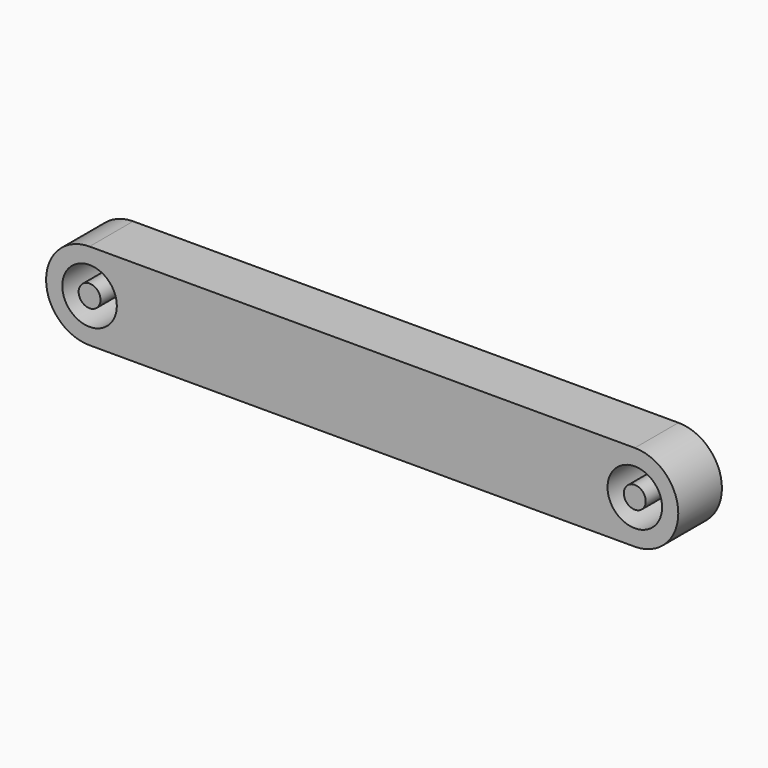
from build123d import *

# Parameters (mm, degrees)
F0_R     = 2.5019
F0_R_2   = 1.0033
F1_DEPTH = 5.0038


with BuildPart() as f1:
    # F0 (on Front) → F1 (new body)
    with BuildSketch(Plane.XZ):
        with BuildLine():
            ThreePointArc((0, 3.9878), (-3.9878, 0), (0, -3.9878))
            Line((0, -3.9878), (50.0126, -3.9878))
            ThreePointArc((50.0126, -3.9878), (54.0004, 0), (50.0126, 3.9878))
            Line((50.0126, 3.9878), (0, 3.9878))
        make_face()
        Circle(F0_R, mode=Mode.SUBTRACT)
        with Locations((50.0126, 0)):
            Circle(F0_R, mode=Mode.SUBTRACT)
        Circle(F0_R_2)
        with Locations((50.0126, 0)):
            Circle(F0_R_2)
    extrude(amount=F1_DEPTH)


solid = f1.part
